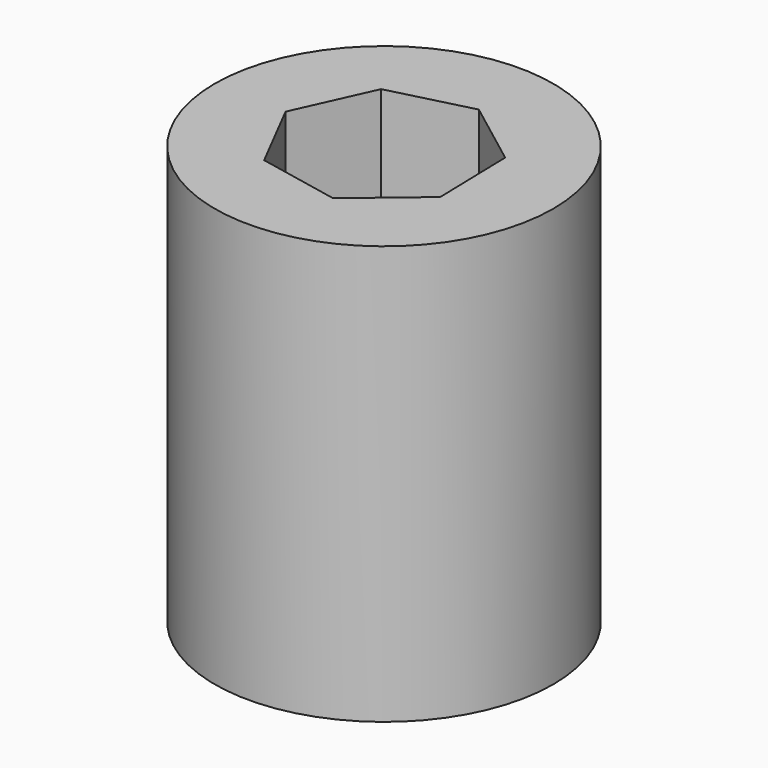
from build123d import *

# Parameters (mm, degrees)
F0_R     = 42.731161
F1_DEPTH = 105.664
F3_DEPTH = 105.665


with BuildPart() as f1:
    # F0 (on Top) → F1 (new body)
    with BuildSketch(Plane.XY):
        Circle(F0_R)
    extrude(amount=F1_DEPTH)

    # F2 (on Top) → F3 (cut, through all)
    with BuildSketch(Plane.XY):
        Polygon((4.826223, 23.883823), (-15.664024, 18.664613), (-24.358942, -0.609431), (-14.711079, -19.424562), (6.014526, -23.612601), (22.211071, -10.01987), (21.682226, 11.118027), align=None)
    extrude(amount=F3_DEPTH, mode=Mode.SUBTRACT)


solid = f1.part
